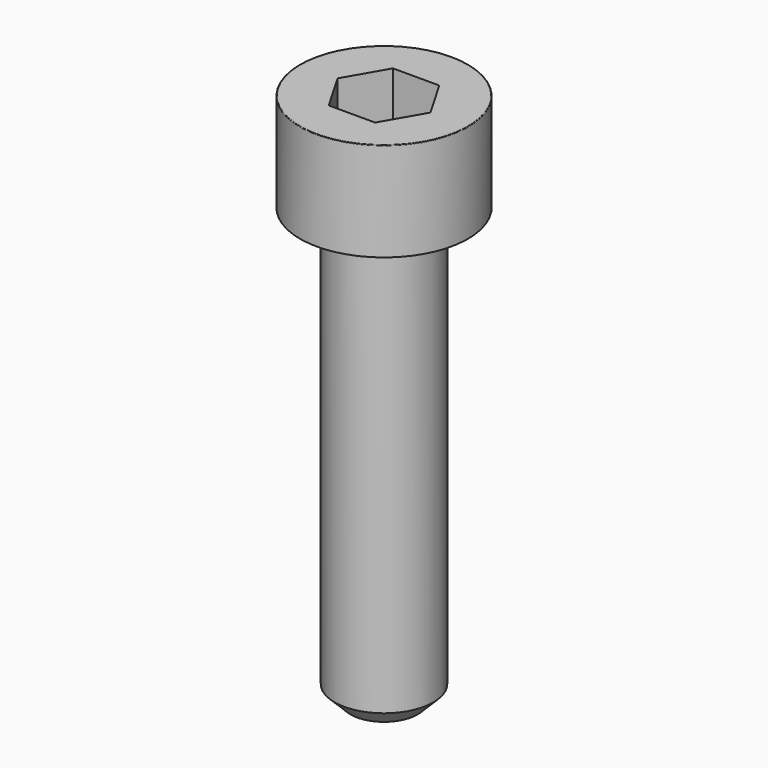
from build123d import *

# Parameters (mm, degrees)
POCKET_DEPTH = 4.06


with BuildPart() as part:
    # Sketch → Revolve (revolve)
    with BuildSketch(Plane.YZ):
        with BuildLine():
            Line((2.499, 0), (4.25, 0))
            Line((4.25, 0), (4.25, 4.97229))
            ThreePointArc((4.25, 4.97229), (4.241884, 4.991884), (4.22229, 5))
            Line((4.22229, 5), (0, 5))
            Line((0, -22), (0, 5))
            Line((1.7, -22), (0, -22))
            Line((2.5, -21.2), (1.7, -22))
            Line((2.5, -0.2), (2.5, -21.2))
            Line((2.499, 0), (2.5, -0.2))
        make_face()
    revolve(axis=Axis((0, 0, 0), (0, 0, 1)))

    # Sketch001 → Pocket (cut)
    with BuildSketch(Plane.XY.offset(5)):
        Polygon((2.344042, 0), (1.172021, 2.03), (-1.172021, 2.03), (-2.344042, 0), (-1.172021, -2.03), (1.172021, -2.03), align=None)
    extrude(amount=-POCKET_DEPTH, mode=Mode.SUBTRACT)


solid = part.part
